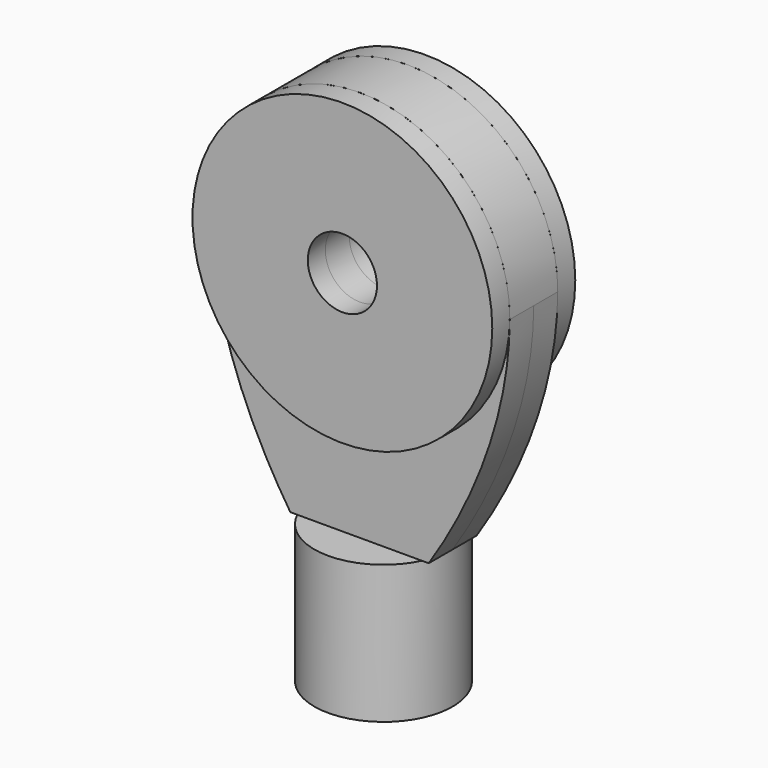
from build123d import *

# Parameters (mm, degrees)
F0_R          = 4.7625
F2_DEPTH      = 4.1275
F2_DEPTH_BACK = 4.1275
F3_START      = 4.1275
F3_DEPTH      = 3.01625


with BuildPart() as f1:
    # F0 (on Front) → F1 (revolve)
    with BuildSketch(Plane.XZ):
        with BuildLine():
            add(Edge.make_bspline(
                [(-9.525, -26.529728329), (-6.2775706923, -31.468818827), (-3.1374456756, -34.9706735986), (0, -34.9699468051)],
                knots=[0.3120763543, 0.3120763543, 0.3120763543, 0.3120763543, 0.4999263386, 0.4999263386, 0.4999263386, 0.4999263386], degree=3))
            Line((-9.525, -26.529728329), (-9.525, -45.579728329))
            Line((-9.525, -45.579728329), (0, -45.579728329))
            Line((0, -45.579728329), (0, -34.9699468051))
        make_face()
        with BuildLine():
            Line((0, -26.529728329), (-9.525, -26.529728329))
            add(Edge.make_bspline(
                [(-9.525, -26.529728329), (-6.2775706923, -31.468818827), (-3.1374456756, -34.9706735986), (0, -34.9699468051)],
                knots=[0.3120763543, 0.3120763543, 0.3120763543, 0.3120763543, 0.4999263386, 0.4999263386, 0.4999263386, 0.4999263386], degree=3))
            Line((0, -34.9699468051), (0, -26.529728329))
        make_face()
    revolve(axis=Axis((0, 0, -36.054728329), (0, 0, -1)))

    # F0 (on Front) → F2 (join, two sides)
    with BuildSketch(Plane.XZ) as f2_sk:
        with BuildLine():
            ThreePointArc((-20.5850532055, 6.807771671), (0.0524467945, -13.829728329), (20.6899467945, 6.807771671))
            ThreePointArc((20.6899467945, 6.807771671), (0.0524467945, 27.445271671), (-20.5850532055, 6.807771671))
        make_face()
        with Locations((0.0524467945, 6.807771671)):
            Circle(F0_R, mode=Mode.SUBTRACT)
        with BuildLine():
            add(Edge.make_bspline(
                [(9.525, -26.529728329), (14.931428061, -18.3253448521), (20.6638962408, -6.1625799815), (20.6899467945, 6.807771671)],
                knots=[0.687776323, 0.687776323, 0.687776323, 0.687776323, 1, 1, 1, 1], degree=3))
            ThreePointArc((20.6899467945, 6.807771671), (0.0524467945, -13.829728329), (-20.5850532055, 6.807771671))
            add(Edge.make_bspline(
                [(-20.5850532055, 6.807771671), (-20.6111024945, -6.1523622547), (-14.9199746264, -18.3243863833), (-9.525, -26.529728329)],
                knots=[0, 0, 0, 0, 0.3120763543, 0.3120763543, 0.3120763543, 0.3120763543], degree=3))
            Line((-9.525, -26.529728329), (0, -26.529728329))
            Line((0, -26.529728329), (9.525, -26.529728329))
        make_face()
    extrude(amount=F2_DEPTH)
    extrude(f2_sk.sketch, amount=-F2_DEPTH_BACK)


with BuildPart() as f3:
    # F0 (on Front) → F3 (new body)
    with BuildSketch(Plane.XZ.offset(F3_START)):
        with BuildLine():
            ThreePointArc((-20.5850532055, 6.807771671), (0.0524467945, -13.829728329), (20.6899467945, 6.807771671))
            ThreePointArc((20.6899467945, 6.807771671), (0.0524467945, 27.445271671), (-20.5850532055, 6.807771671))
        make_face()
        with Locations((0.0524467945, 6.807771671)):
            Circle(F0_R, mode=Mode.SUBTRACT)
    extrude(amount=F3_DEPTH)


with BuildPart() as f4_1:
    # F4: instance of F3
    add(f3.part.mirror(Plane.XZ))


solid = Compound([f1.part, f3.part, f4_1.part])
